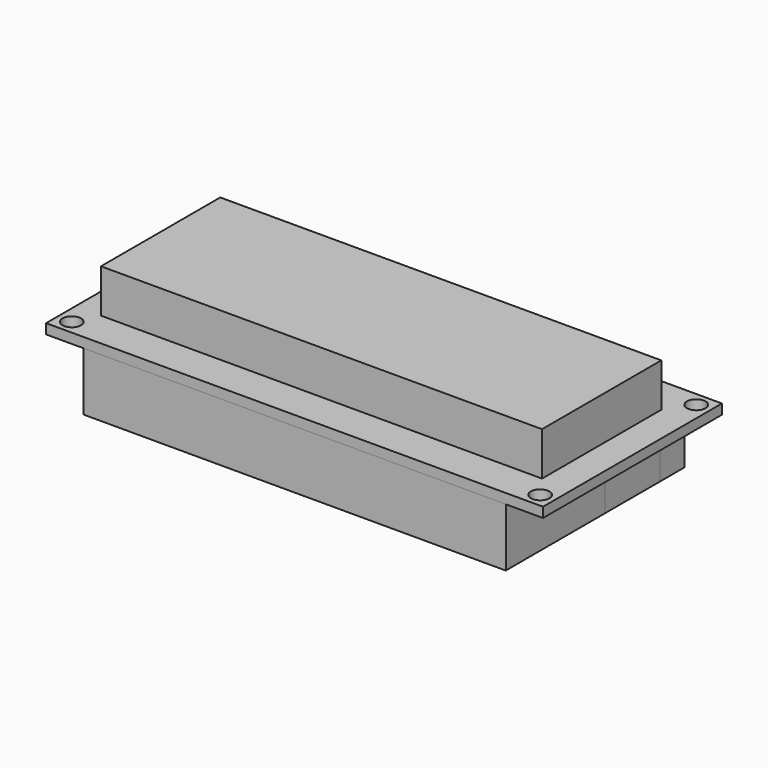
from build123d import *

# Parameters (mm, degrees)
F0_W     = 71
F0_H     = 24
F1_DEPTH = 8.6
F0_W_2   = 80
F0_H_2   = 36
F0_R     = 1.5
F2_DEPTH = 1.6
F3_W     = 12.519065
F3_H     = 11
F4_DEPTH = 9.4
F5_W     = 11
F5_H     = 3
F6_DEPTH = 15


with BuildPart() as f1:
    # F0 (on Top) → F1 (new body)
    with BuildSketch(Plane.XY):
        with Locations((21.243287, 13.306251)):
            Rectangle(F0_W, F0_H)
    extrude(amount=F1_DEPTH)

    # F0 (on Top) → F2 (join)
    with BuildSketch(Plane.XY):
        with Locations((21.625949, 13.406251)):
            Rectangle(F0_W_2, F0_H_2)
        with Locations((-16.074051, -2.293749)):
            Circle(F0_R, mode=Mode.SUBTRACT)
        with Locations((21.243287, 13.306251)):
            Rectangle(F0_W, F0_H, mode=Mode.SUBTRACT)
        with Locations((59.325949, -2.293749)):
            Circle(F0_R, mode=Mode.SUBTRACT)
        with Locations((-16.074051, 29.106251)):
            Circle(F0_R, mode=Mode.SUBTRACT)
        with Locations((59.325949, 29.106251)):
            Circle(F0_R, mode=Mode.SUBTRACT)
    extrude(amount=F2_DEPTH)


with BuildPart() as f4:
    # F3 (on Top) → F4 (new body)
    with BuildSketch(Plane.XY):
        Polygon((43.106884, 26.406251), (55.625949, 26.406251), (55.625949, 31.406251), (-12.374051, 31.406251), (-12.374051, -4.593749), (55.625949, -4.593749), (55.625949, 15.406251), (43.106884, 15.406251), align=None)
        with Locations((49.366416, 20.906251)):
            Rectangle(F3_W, F3_H)
    extrude(amount=-F4_DEPTH)

    # F5 (on face) → F6 (join)
    with BuildSketch(Plane(origin=(-12.374051, 0, 0), x_dir=(0, -1, 0), z_dir=(-1, 0, 0))):
        with Locations((-20.906251, -7.9)):
            Rectangle(F5_W, F5_H)
    extrude(amount=F6_DEPTH)


solid = Compound([f1.part, f4.part])
